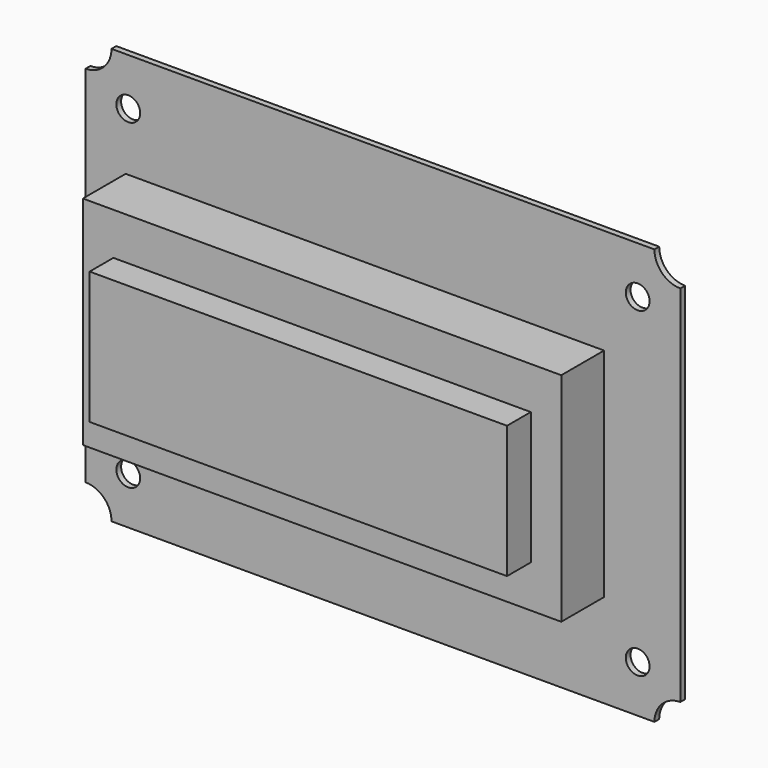
from build123d import *

# Parameters (mm, degrees)
F0_R     = 2
F0_W     = 80.502108
F0_H     = 36.524102
F1_DEPTH = 1
F0_W_2   = 70.236466
F0_H_2   = 22.275392
F2_DEPTH = 10
F3_DEPTH = 15


with BuildPart() as f1:
    # F0 (on Front) → F1 (new body)
    with BuildSketch(Plane.XZ):
        with BuildLine():
            ThreePointArc((4.3625, 70), (3.084753, 66.915247), (0, 65.6375))
            Line((0, 65.6375), (0, 4.3625))
            ThreePointArc((0, 4.3625), (3.084753, 3.084753), (4.3625, 0))
            Line((4.3625, 0), (95.728963, 0))
            ThreePointArc((95.728963, 0), (97.00671, 3.084753), (100.091463, 4.3625))
            Line((100.091463, 4.3625), (100.091463, 65.6375))
            ThreePointArc((100.091463, 65.6375), (97.00671, 66.915247), (95.728963, 70))
            Line((95.728963, 70), (4.3625, 70))
        make_face()
        with Locations((7.183232, 7.95)):
            Circle(F0_R, mode=Mode.SUBTRACT)
        with Locations((47, 34)):
            Rectangle(F0_W, F0_H, mode=Mode.SUBTRACT)
        with Locations((92.908232, 7.95)):
            Circle(F0_R, mode=Mode.SUBTRACT)
        with Locations((7.183232, 62.05)):
            Circle(F0_R, mode=Mode.SUBTRACT)
        with Locations((92.908232, 62.05)):
            Circle(F0_R, mode=Mode.SUBTRACT)
    extrude(amount=F1_DEPTH)

    # F0 (on Front) → F2 (join)
    with BuildSketch(Plane.XZ):
        with Locations((47, 34)):
            Rectangle(F0_W, F0_H)
        with Locations((47, 34)):
            Rectangle(F0_W_2, F0_H_2, mode=Mode.SUBTRACT)
    extrude(amount=F2_DEPTH)

    # F0 (on Front) → F3 (join)
    with BuildSketch(Plane.XZ):
        with Locations((47, 34)):
            Rectangle(F0_W_2, F0_H_2)
    extrude(amount=F3_DEPTH)


solid = f1.part
